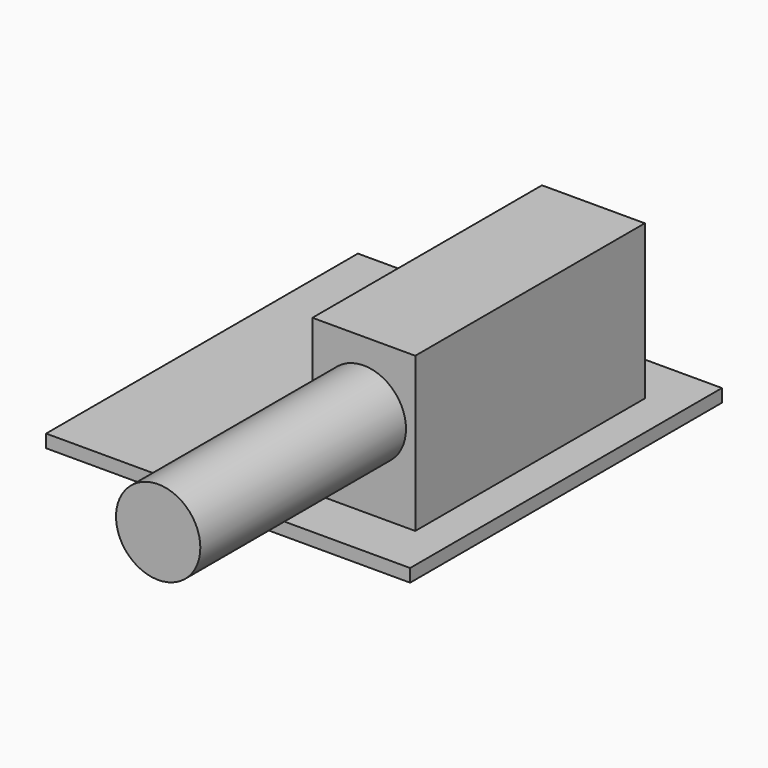
from build123d import *

# Parameters (mm, degrees)
F0_W          = 44.958
F0_H          = 48.133
F1_DEPTH      = 0.8001
F2_R          = 5.207
F3_DEPTH      = 25.4
F3_DEPTH_BACK = 6.35
F4_W          = 12.7
F4_H          = 35.433
F5_DEPTH      = 19.05


with BuildPart() as f1:
    # F0 (on Top) → F1 (new body, symmetric)
    with BuildSketch(Plane.XY):
        Rectangle(F0_W, F0_H)
    extrude(amount=F1_DEPTH, both=True)



with BuildPart() as f3:
    # F2 (on face) → F3 (new body, two sides)
    with BuildSketch(Plane.XZ.offset(24.0665)) as f3_sk:
        with Locations((11.684, 11.5189)):
            Circle(F2_R)
    extrude(amount=F3_DEPTH)
    extrude(f3_sk.sketch, amount=-F3_DEPTH_BACK)


with BuildPart() as f1_1:
    add(f1.part)

    add(f3.part)  # F5 merges F3
    # F4 (on face) → F5 (join)
    with BuildSketch(Plane.XY.offset(0.8001)):
        with Locations((11.684, 0)):
            Rectangle(F4_W, F4_H)
    extrude(amount=F5_DEPTH)


solid = f1_1.part
